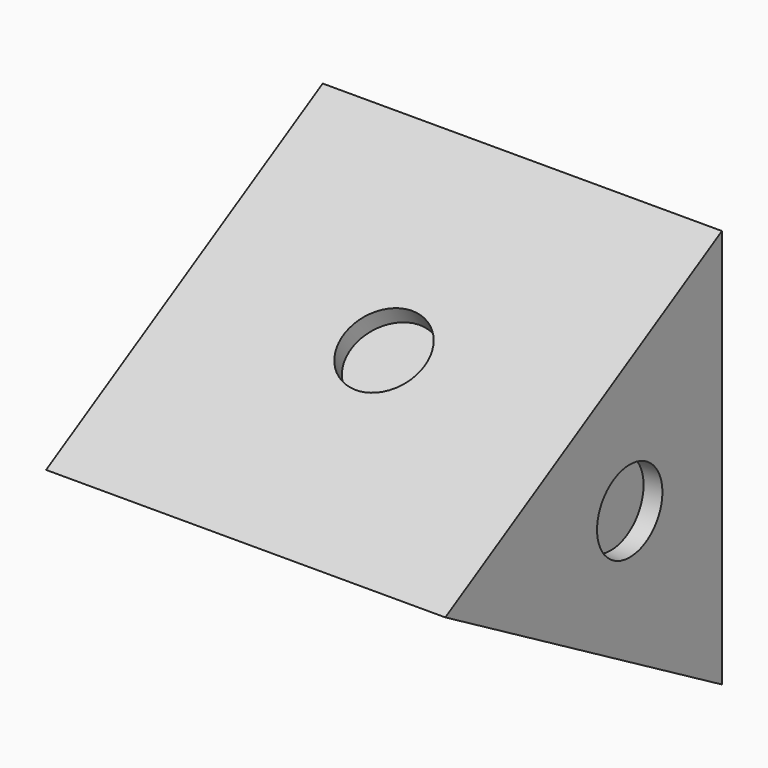
from build123d import *

# Parameters (mm, degrees)
F1_DEPTH  = 12.7
F6_R      = 2.6
F7_DEPTH  = 1.2
F4_R      = 2.6
F8_DEPTH  = 1.2
F5_R      = 2.6
F9_DEPTH  = 1.2
F3_R      = 2.6
F10_DEPTH = 1.2
F2_R      = 2.6
F11_DEPTH = 1.2


with BuildPart() as f1:
    # F0 (on Right) → F1 (new body, symmetric)
    with BuildSketch(Plane.YZ):
        Polygon((7.3323484187, -12.7), (7.3323484187, 12.7), (-14.6646968374, 0), align=None)
    extrude(amount=F1_DEPTH, both=True)

    # F6 (on face) → F7 (cut)
    with BuildSketch(Plane.YZ.offset(12.7)):
        Circle(F6_R)
    extrude(amount=-F7_DEPTH, mode=Mode.SUBTRACT)

    # F4 (on face) → F8 (cut)
    with BuildSketch(Plane(origin=(0, -3.6661742094, -6.35), x_dir=(1, 0, 0), z_dir=(0, -0.5, -0.8660254038))):
        Circle(F4_R)
    extrude(amount=-F8_DEPTH, mode=Mode.SUBTRACT)

    # F5 (on face) → F9 (cut)
    with BuildSketch(Plane(origin=(-12.7, 0, 0), x_dir=(0, -1, 0), z_dir=(-1, 0, 0))):
        Circle(F5_R)
    extrude(amount=-F9_DEPTH, mode=Mode.SUBTRACT)

    # F3 (on face) → F10 (cut)
    with BuildSketch(Plane(origin=(0, 7.3323484187, 0), x_dir=(-1, 0, 0), z_dir=(0, 1, 0))):
        Circle(F3_R)
    extrude(amount=-F10_DEPTH, mode=Mode.SUBTRACT)

    # F2 (on face) → F11 (cut)
    with BuildSketch(Plane(origin=(0, -3.6661742094, 6.35), x_dir=(1, 0, 0), z_dir=(0, -0.5, 0.8660254038))):
        Circle(F2_R)
    extrude(amount=-F11_DEPTH, mode=Mode.SUBTRACT)


solid = f1.part
